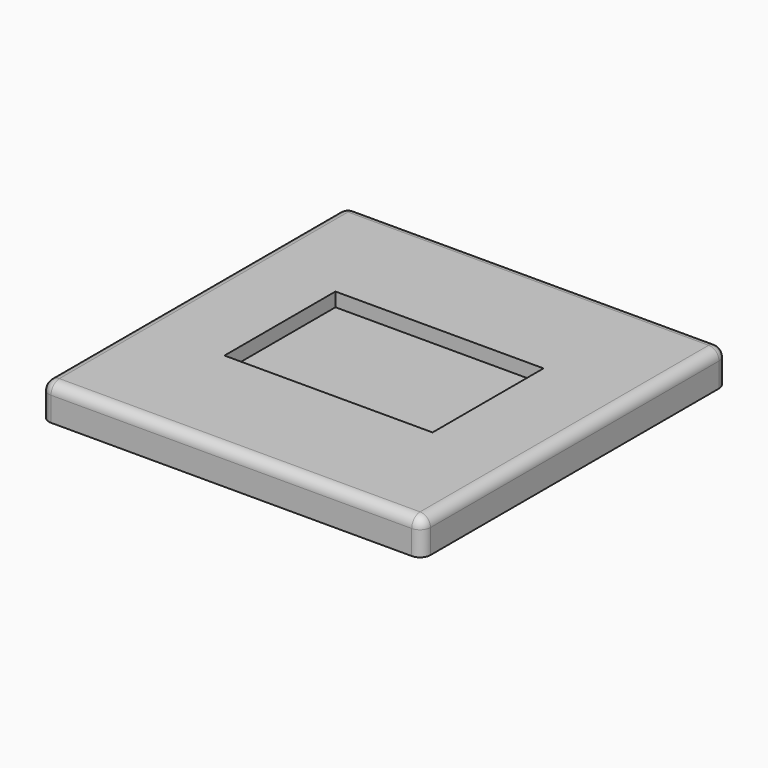
from build123d import *

# Parameters (mm, degrees)
F0_W     = 550
F0_H     = 550
F1_DEPTH = 50
F2_R     = 15
F3_W     = 300
F3_H     = 200
F4_DEPTH = 20


with BuildPart() as f1:
    # F0 (on Top) → F1 (new body)
    with BuildSketch(Plane.XY):
        Rectangle(F0_W, F0_H)
    extrude(amount=F1_DEPTH)

    # F2
    f2_edges = [f1.edges().sort_by_distance(p)[0] for p in [
        (0, -275, 50),
        (275, 0, 50),
        (0, 275, 50),
        (-275, 0, 50),
        (275, -275, 25),
        (275, 275, 25),
        (-275, 275, 25),
        (-275, -275, 25),
    ]]
    fillet(f2_edges, radius=F2_R)

    # F3 (on face) → F4 (cut)
    with BuildSketch(Plane.XY.offset(50)):
        Rectangle(F3_W, F3_H)
    extrude(amount=-F4_DEPTH, mode=Mode.SUBTRACT)


solid = f1.part
